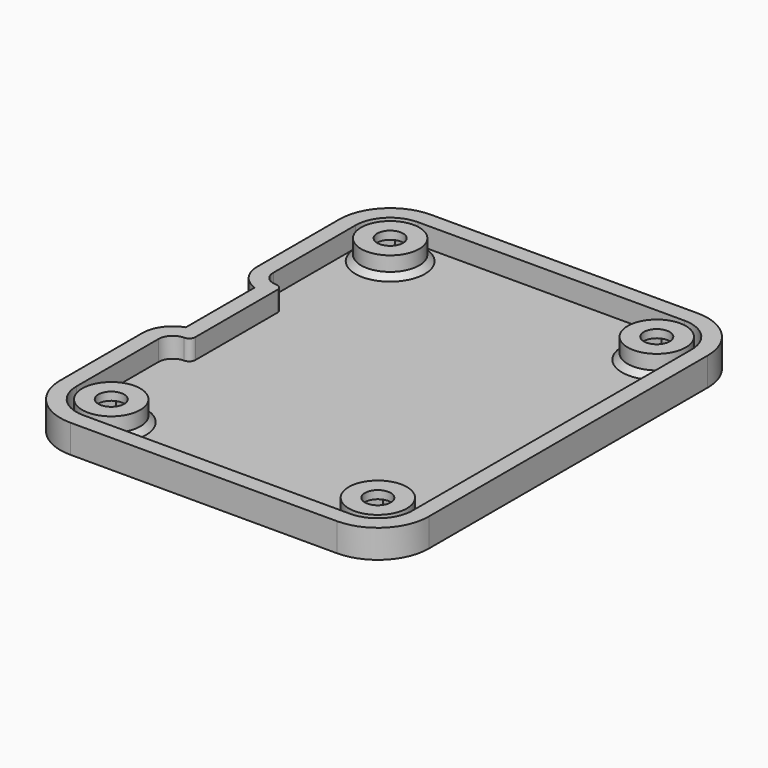
from build123d import *

# Parameters (mm, degrees)
PAD_DEPTH       = 2.5
PAD001_DEPTH    = 1
SKETCH003_R     = 1.6
POCKET_DEPTH    = 3.501
SKETCH004_R     = 3.6
SKETCH004_R_2   = 1.6
PAD002_DEPTH    = 2.5
POCKET003_DEPTH = 2.5
CHAMFER005_SIZE = 0.7


with BuildPart() as part:
    # Sketch001 → Pad (new body)
    with BuildSketch(Plane.XY):
        with BuildLine():
            Line((-21.59, 27.9), (11.43, 27.9))
            ThreePointArc((17.74, 21.59), (15.891844, 26.051844), (11.43, 27.9))
            Line((17.74, 21.59), (17.74, -21.59))
            ThreePointArc((11.43, -27.9), (15.891844, -26.051844), (17.74, -21.59))
            Line((11.43, -27.9), (-21.59, -27.9))
            ThreePointArc((-27.9, -21.59), (-26.051844, -26.051844), (-21.59, -27.9))
            Line((-27.9, -21.59), (-27.9, -8.89))
            ThreePointArc((-25.36, -5.326294), (-27.200016, -6.701873), (-27.9, -8.89))
            Line((-25.36, -5.326294), (-25.36, 5.326294))
            ThreePointArc((-27.9, 8.89), (-27.200016, 6.701873), (-25.36, 5.326294))
            Line((-27.9, 8.89), (-27.9, 21.59))
            ThreePointArc((-21.59, 27.9), (-26.051844, 26.051844), (-27.9, 21.59))
        make_face()
        with BuildLine():
            Line((-21.59, 25.9), (11.43, 25.9))
            ThreePointArc((15.74, 21.59), (14.47763, 24.63763), (11.43, 25.9))
            Line((15.74, 21.59), (15.74, -21.59))
            ThreePointArc((11.43, -25.9), (14.47763, -24.63763), (15.74, -21.59))
            Line((11.43, -25.9), (-21.59, -25.9))
            ThreePointArc((-25.9, -21.59), (-24.63763, -24.63763), (-21.59, -25.9))
            Line((-25.9, -21.59), (-25.9, -8.89))
            ThreePointArc((-24.13, -7.12), (-25.381579, -7.638421), (-25.9, -8.89))
            ThreePointArc((-24.13, -7.12), (-23.585528, -6.894472), (-23.36, -6.35))
            Line((-23.36, -6.35), (-23.36, 6.35))
            ThreePointArc((-23.36, 6.35), (-23.585528, 6.894472), (-24.13, 7.12))
            ThreePointArc((-25.9, 8.89), (-25.381579, 7.638421), (-24.13, 7.12))
            Line((-25.9, 8.89), (-25.9, 21.59))
            ThreePointArc((-21.59, 25.9), (-24.63763, 24.63763), (-25.9, 21.59))
        make_face(mode=Mode.SUBTRACT)
    extrude(amount=-PAD_DEPTH)

    # Sketch002 (on Face28 of Pad) → Pad001 (join)
    with BuildSketch(Plane(origin=(0, 0, -2.5), x_dir=(1, 0, 0), z_dir=(0, 0, -1))):
        with BuildLine():
            Line((-21.59, 27.9), (11.43, 27.9))
            ThreePointArc((17.74, 21.59), (15.891844, 26.051844), (11.43, 27.9))
            Line((17.74, 21.59), (17.74, -21.59))
            ThreePointArc((11.43, -27.9), (15.891844, -26.051844), (17.74, -21.59))
            Line((11.43, -27.9), (-21.59, -27.9))
            ThreePointArc((-27.9, -21.59), (-26.051844, -26.051844), (-21.59, -27.9))
            Line((-27.9, -21.59), (-27.9, -8.89))
            ThreePointArc((-25.36, -5.326294), (-27.200016, -6.701873), (-27.9, -8.89))
            Line((-25.36, -5.326294), (-25.36, 5.326294))
            ThreePointArc((-27.9, 8.89), (-27.200016, 6.701873), (-25.36, 5.326294))
            Line((-27.9, 8.89), (-27.9, 21.59))
            ThreePointArc((-21.59, 27.9), (-26.051844, 26.051844), (-27.9, 21.59))
        make_face()
    extrude(amount=PAD001_DEPTH)

    # Sketch003 (on Face31 of Pad001) → Pocket (cut, through all)
    with BuildSketch(Plane(origin=(0, 0, -3.5), x_dir=(1, 0, 0), z_dir=(0, 0, -1))):
        with Locations((-21.59, 21.59)):
            Circle(SKETCH003_R)
        with Locations((11.43, 21.59)):
            Circle(SKETCH003_R)
        with Locations((11.43, -21.59)):
            Circle(SKETCH003_R)
        with Locations((-21.59, -21.59)):
            Circle(SKETCH003_R)
    extrude(amount=-POCKET_DEPTH, mode=Mode.SUBTRACT)

    # Sketch004 (on Face41 of Pocket) → Pad002 (join)
    with BuildSketch(Plane.XY.offset(-2.5)):
        with Locations((11.43, 21.59)):
            Circle(SKETCH004_R)
        with Locations((11.43, 21.59)):
            Circle(SKETCH004_R_2, mode=Mode.SUBTRACT)
        with Locations((-21.59, 21.59)):
            Circle(SKETCH004_R)
        with Locations((-21.59, 21.59)):
            Circle(SKETCH004_R_2, mode=Mode.SUBTRACT)
        with Locations((11.43, -21.59)):
            Circle(SKETCH004_R)
        with Locations((11.43, -21.59)):
            Circle(SKETCH004_R_2, mode=Mode.SUBTRACT)
        with Locations((-21.59, -21.59)):
            Circle(SKETCH004_R)
        with Locations((-21.59, -21.59)):
            Circle(SKETCH004_R_2, mode=Mode.SUBTRACT)
    extrude(amount=PAD002_DEPTH)

    # Sketch012 (on Face31 of Pad002) → Pocket003 (cut)
    with BuildSketch(Plane(origin=(0, 0, -3.5), x_dir=(1, 0, 0), z_dir=(0, 0, -1))):
        Polygon((-18.414574, -21.59), (-20.002287, -18.84), (-23.177713, -18.84), (-24.765426, -21.59), (-23.177713, -24.34), (-20.002287, -24.34), align=None)
        Polygon((8.254574, -21.59), (9.842287, -24.34), (13.017713, -24.34), (14.605426, -21.59), (13.017713, -18.84), (9.842287, -18.84), align=None)
        Polygon((-24.765426, 21.59), (-23.177713, 18.84), (-20.002287, 18.84), (-18.414574, 21.59), (-20.002287, 24.34), (-23.177713, 24.34), align=None)
        Polygon((14.605426, 21.59), (13.017713, 24.34), (9.842287, 24.34), (8.254574, 21.59), (9.842287, 18.84), (13.017713, 18.84), align=None)
    extrude(amount=-POCKET003_DEPTH, mode=Mode.SUBTRACT)

    # Chamfer005
    chamfer005_edges = [part.edges().sort_by_distance(p)[0] for p in [
        (-25.19, 21.59, -2.5),
        (7.83, 21.59, -2.5),
        (-25.19, -21.59, -2.5),
        (7.83, -21.59, -2.5),
    ]]
    chamfer(chamfer005_edges, length=CHAMFER005_SIZE)


solid = part.part
